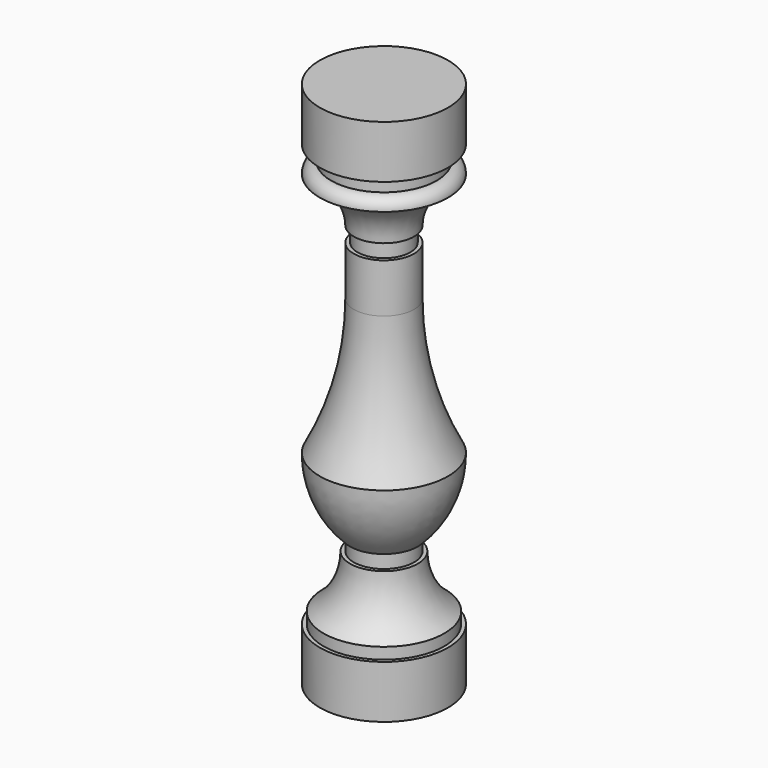
from build123d import *


with BuildPart() as f1:
    # F0 (on Front) → F1 (revolve)
    with BuildSketch(Plane.XZ):
        with BuildLine():
            Line((-8.5, 0), (0, 0))
            Line((0, 0), (0, 70))
            Line((0, 70), (-8.5, 70))
            Line((-8.5, 70), (-8.5, 63))
            Line((-8.5, 63), (-7, 63))
            Line((-7, 63), (-7, 61))
            ThreePointArc((-7, 61), (-8.06066, 60.56066), (-8.5, 59.5))
            ThreePointArc((-8.5, 59.5), (-5.25, 57.25), (-4, 53.5))
            Line((-4, 53.5), (-3.5, 53.5))
            Line((-3.5, 53.5), (-3.5, 51.5))
            Line((-3.5, 51.5), (-4, 51.5))
            Line((-4, 51.5), (-4, 45))
            ThreePointArc((-4, 45), (-5.142049, 35.723012), (-8.5, 27))
            ThreePointArc((-8.5, 27), (-7.45922, 21.846118), (-4.5, 17.5))
            Line((-4.5, 17.5), (-4, 17.5))
            Line((-4, 17.5), (-4, 15.5))
            Line((-4, 15.5), (-4.5, 15.5))
            ThreePointArc((-4.5, 15.5), (-5.423762, 11.586881), (-8, 8.5))
            Line((-8, 8.5), (-8, 7))
            Line((-8, 7), (-8.5, 7))
            Line((-8.5, 7), (-8.5, 0))
        make_face()
    revolve(axis=Axis((0, 0, 35), (0, 0, -1)))


solid = f1.part
